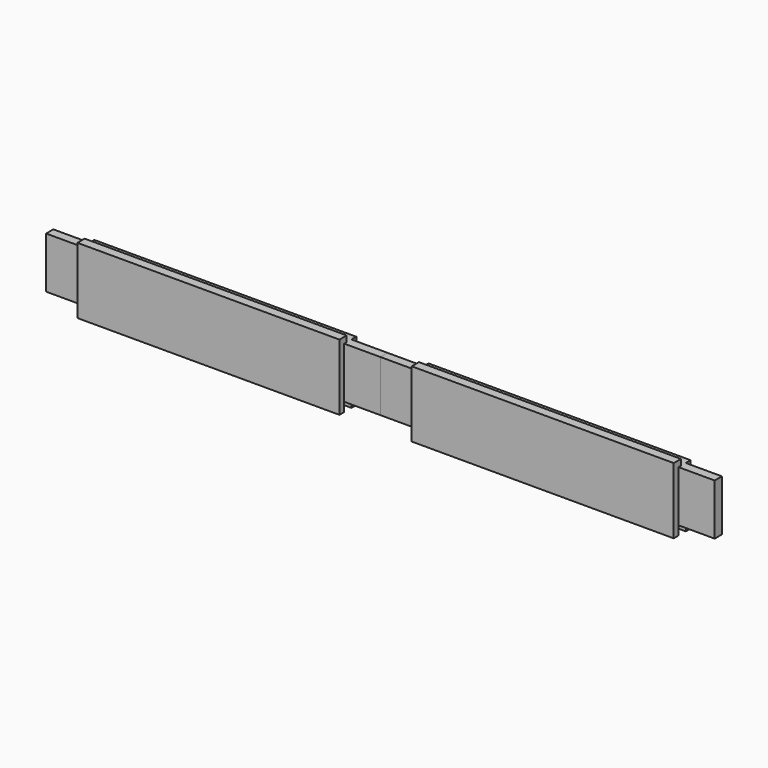
from build123d import *

# Parameters (mm, degrees)
F0_W     = 352.425
F0_H     = 69.85
F1_DEPTH = 22.225
F2_W     = 38.1
F2_H     = 6.35
F3_DEPTH = 69.85
F2_H_2   = 9.525
F2_W_2   = 276.225
F4_DEPTH = 9.525
F6_DEPTH = 6.35


with BuildPart() as f1:
    # F0 (on Front) → F1 (new body)
    with BuildSketch(Plane.XZ):
        with Locations((176.2125, 34.925)):
            Rectangle(F0_W, F0_H)
    extrude(amount=F1_DEPTH)

    # F2 (on face) → F3 (cut, through all)
    with BuildSketch(Plane(origin=(0, 0, 0), x_dir=(1, 0, 0), z_dir=(0, 0, -1))):
        with Locations((19.05, 19.05)):
            Rectangle(F2_W, F2_H)
        with Locations((19.05, 3.175)):
            Rectangle(F2_W, F2_H)
        with Locations((333.375, 19.05)):
            Rectangle(F2_W, F2_H)
        with Locations((333.375, 3.175)):
            Rectangle(F2_W, F2_H)
    extrude(amount=-F3_DEPTH, mode=Mode.SUBTRACT)

    # F2 (on face) → F4 (cut)
    with BuildSketch(Plane(origin=(0, 0, 0), x_dir=(1, 0, 0), z_dir=(0, 0, -1))):
        with Locations((19.05, 11.1125)):
            Rectangle(F2_W, F2_H_2)
        with Locations((176.2125, 11.1125)):
            Rectangle(F2_W_2, F2_H_2)
        with Locations((333.375, 11.1125)):
            Rectangle(F2_W, F2_H_2)
    extrude(amount=-F4_DEPTH, mode=Mode.SUBTRACT)

    # F5 (on face) → F6 (cut)
    with BuildSketch(Plane.XY.offset(69.85)):
        Polygon((314.325, 0), (38.1, 0), (38.1, -6.35), (0, -6.35), (0, -15.875), (38.1, -15.875), (38.1, -12.7), (314.325, -12.7), (314.325, -15.875), (352.425, -15.875), (352.425, -6.35), (314.325, -6.35), align=None)
    extrude(amount=-F6_DEPTH, mode=Mode.SUBTRACT)


with BuildPart() as f7_1:
    # F7: instance of F1
    add(f1.part.mirror(Plane.YZ))


solid = Compound([f1.part, f7_1.part])
